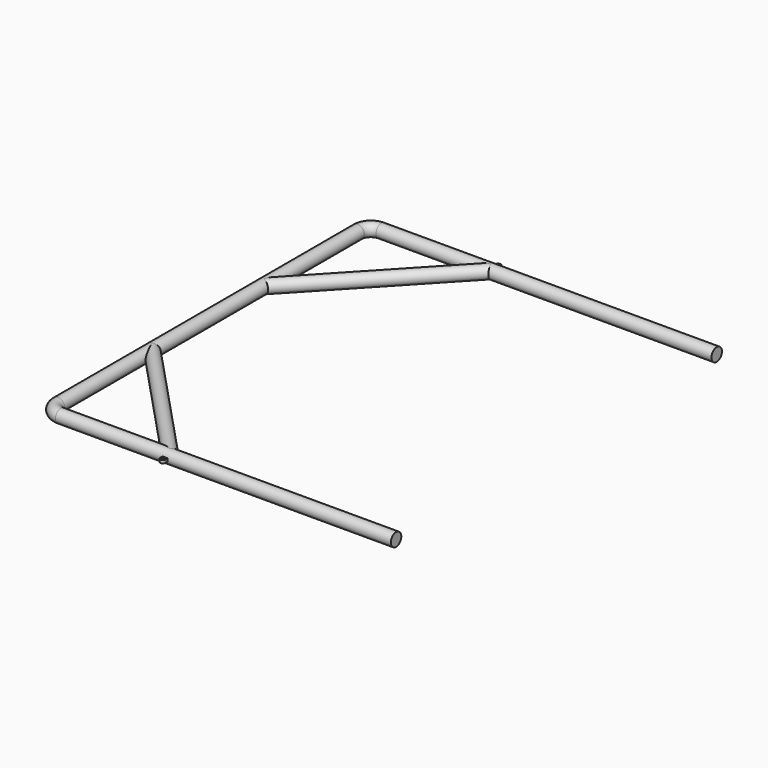
from build123d import *

# Parameters (mm, degrees)
F0_R          = 37.5
F3_R          = 37.5
F6_R          = 7.5
F7_DEPTH      = 8.33
F7_DEPTH_BACK = 8.33


with BuildPart() as f2:
    # F2: sweep along a path in F1
    with BuildLine(Plane.XY) as f2_path:
        Line((0, 2300), (-1925, 2300))
        ThreePointArc((-1925, 2300), (-1978.033008589, 2278.033008589), (-2000, 2225))
        Line((-2000, 2225), (-2000, 75))
        ThreePointArc((-2000, 75), (-1978.033008589, 21.966991411), (-1925, 0))
        Line((-1925, 0), (0, 0))
    # F0 (on Right) → F2 (sweep)
    with BuildSketch(Plane.YZ):
        with Locations((2300, 0)):
            Circle(F0_R)
    sweep(path=f2_path.line)

    # F5: sweep along a path in F4
    with BuildLine(Plane.XY) as f5_path:
        Line((0, 0), (-1296.5, 0))
        Line((-1296.5, 0), (-2000, 750))
        Line((-2000, 750), (-2000, 1550))
        Line((-2000, 1550), (-1296.5, 2300))
    # F3 (on Right) → F5 (sweep)
    with BuildSketch(Plane.YZ):
        Circle(F3_R)
    sweep(path=f5_path.line, transition=Transition.RIGHT)

    # F6 (on Top) → F7 (join, two sides)
    with BuildSketch(Plane.XY) as f7_sk:
        with BuildLine():
            Line((-1281.5, 0), (-1311.5, 0))
            Line((-1311.5, 0), (-1311.5, -52.5))
            ThreePointArc((-1311.5, -52.5), (-1307.1066017178, -63.1066017178), (-1296.5, -67.5))
            ThreePointArc((-1296.5, -67.5), (-1285.8933982822, -63.1066017178), (-1281.5, -52.5))
            Line((-1281.5, -52.5), (-1281.5, 0))
        make_face()
        with Locations((-1296.5, -52.5)):
            Circle(F6_R, mode=Mode.SUBTRACT)
        with BuildLine():
            Line((-1311.5, 2300), (-1281.5, 2300))
            Line((-1281.5, 2300), (-1281.5, 2352.5))
            ThreePointArc((-1281.5, 2352.5), (-1285.8933982822, 2363.1066017178), (-1296.5, 2367.5))
            ThreePointArc((-1296.5, 2367.5), (-1307.1066017178, 2363.1066017178), (-1311.5, 2352.5))
            Line((-1311.5, 2352.5), (-1311.5, 2300))
        make_face()
        with Locations((-1296.5, 2352.5)):
            Circle(F6_R, mode=Mode.SUBTRACT)
    extrude(amount=F7_DEPTH)
    extrude(f7_sk.sketch, amount=-F7_DEPTH_BACK)


solid = f2.part
